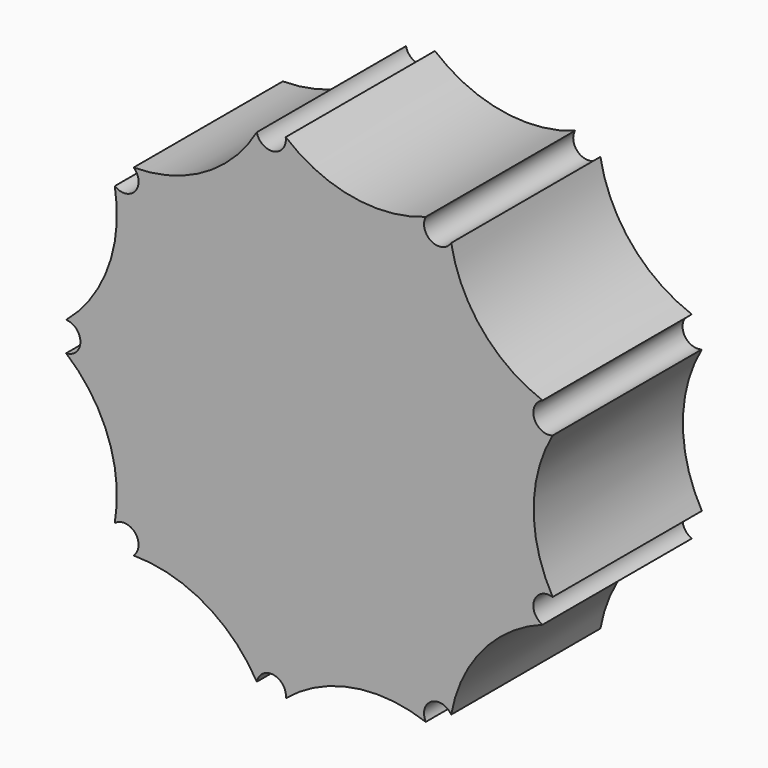
from build123d import *

# Parameters (mm, degrees)
F1_DEPTH = 19.05


with BuildPart() as f1:
    # F0 (on Front) → F1 (new body)
    with BuildSketch(Plane.XZ):
        with BuildLine():
            ThreePointArc((24.339379, -7.263239), (22.4, 0), (24.339379, 7.263239))
            ThreePointArc((24.339379, 7.263239), (22.458654, 8.174281), (23.313766, 10.081087))
            ThreePointArc((23.313766, 10.081087), (17.159396, 14.398442), (13.976326, 21.209015))
            ThreePointArc((13.976326, 21.209015), (11.95, 20.698007), (11.379383, 22.708361))
            ThreePointArc((11.379383, 22.708361), (3.889719, 22.059694), (-2.926405, 25.230857))
            ThreePointArc((-2.926405, 25.230857), (-2.914604, 25.122772), (-2.910664, 25.014117))
            ThreePointArc((-2.910664, 25.014117), (-4.257881, 23.521918), (-5.87954, 24.71014))
            ThreePointArc((-5.87954, 24.71014), (-11.2, 19.398969), (-18.459839, 17.446901))
            ThreePointArc((-18.459839, 17.446901), (-18.088855, 16.940591), (-17.957529, 16.326805))
            ThreePointArc((-17.957529, 16.326805), (-18.803598, 14.976852), (-20.387361, 15.14977))
            ThreePointArc((-20.387361, 15.14977), (-21.049115, 7.661251), (-25.355709, 1.499346))
            ThreePointArc((-25.355709, 1.499346), (-24.323794, 1.044883), (-23.9, 0))
            ThreePointArc((-23.9, 0), (-24.323794, -1.044883), (-25.355709, -1.499346))
            ThreePointArc((-25.355709, -1.499346), (-21.049115, -7.661251), (-20.387361, -15.14977))
            ThreePointArc((-20.387361, -15.14977), (-18.803598, -14.976852), (-17.957529, -16.326805))
            ThreePointArc((-17.957529, -16.326805), (-18.088855, -16.940591), (-18.459839, -17.446901))
            ThreePointArc((-18.459839, -17.446901), (-11.2, -19.398969), (-5.87954, -24.71014))
            ThreePointArc((-5.87954, -24.71014), (-4.257881, -23.521918), (-2.910664, -25.014117))
            ThreePointArc((-2.910664, -25.014117), (-2.914604, -25.122772), (-2.926405, -25.230857))
            ThreePointArc((-2.926405, -25.230857), (3.889719, -22.059694), (11.379383, -22.708361))
            ThreePointArc((11.379383, -22.708361), (11.95, -20.698007), (13.976326, -21.209015))
            ThreePointArc((13.976326, -21.209015), (17.159396, -14.398442), (23.313766, -10.081087))
            ThreePointArc((23.313766, -10.081087), (22.458654, -8.174281), (24.339379, -7.263239))
        make_face()
    extrude(amount=F1_DEPTH)


solid = f1.part
